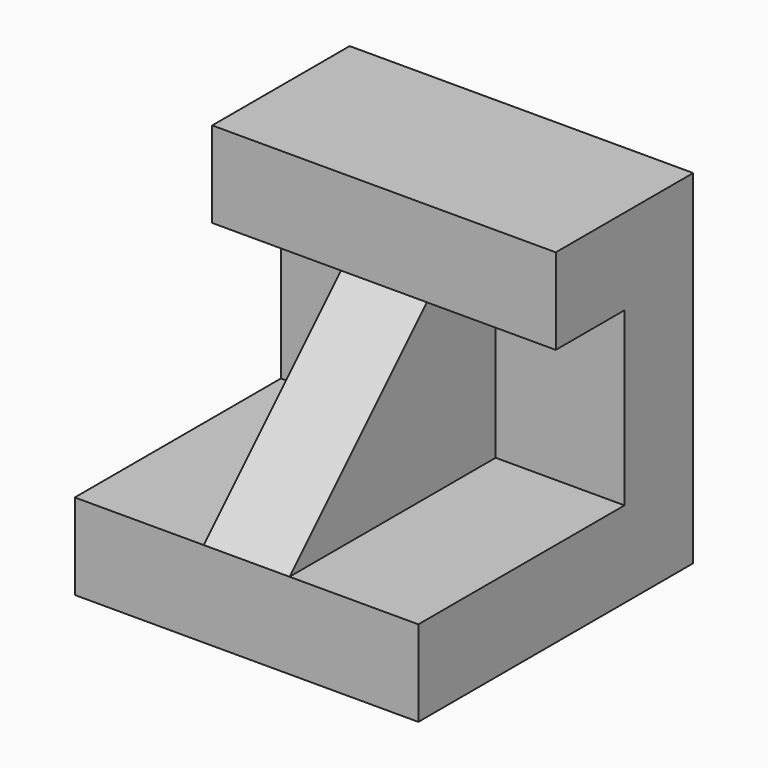
from build123d import *

# Parameters (mm, degrees)
F0_W     = 101.6
F0_H     = 101.6
F1_DEPTH = 101.6
F3_DEPTH = 121.666
F4_W     = 25.4
F4_H     = 76.2
F5_DEPTH = 50.8
F7_DEPTH = 99.568


with BuildPart() as f1:
    # F0 (on Front) → F1 (new body)
    with BuildSketch(Plane.XZ):
        with Locations((-50.8, -50.8)):
            Rectangle(F0_W, F0_H)
    extrude(amount=F1_DEPTH)

    # F2 (on face) → F3 (cut)
    with BuildSketch(Plane.YZ):
        Polygon((-50.8, -25.4), (-50.8, 0), (-101.6, 0), (-101.6, -76.2), (-25.4, -76.2), (-25.4, -25.4), align=None)
    extrude(amount=-F3_DEPTH, mode=Mode.SUBTRACT)

    # F4 (on face) → F5 (join)
    with BuildSketch(Plane.XY.offset(-76.2)):
        with Locations((-50.8, -63.5)):
            Rectangle(F4_W, F4_H)
    extrude(amount=F5_DEPTH)

    # F6 (on face) → F7 (cut)
    with BuildSketch(Plane.YZ.offset(-38.1)):
        Polygon((-101.6, -76.2), (-50.8, -25.4), (-92.064753, -25.4), (-101.6, -25.4), align=None)
    extrude(amount=-F7_DEPTH, mode=Mode.SUBTRACT)


solid = f1.part
